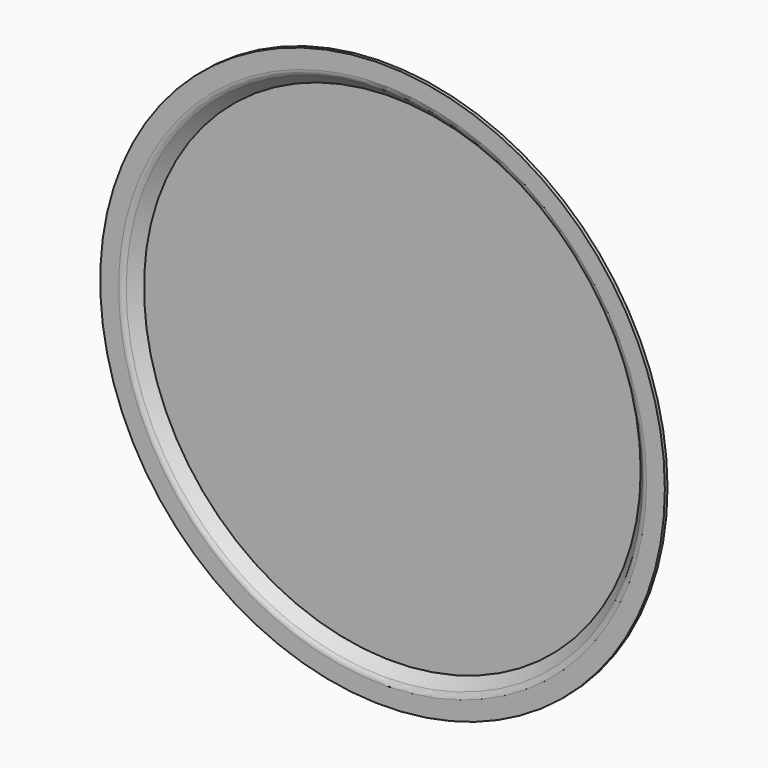
from build123d import *


with BuildPart() as f1:
    # F0 (on Top) → F1 (revolve)
    with BuildSketch(Plane.XY):
        with BuildLine():
            Line((256.921, 0), (0, 0))
            Line((0, 0), (0, -3.429))
            Line((0, -3.429), (257.57173, -3.429))
            Line((257.57173, -3.429), (267.802933, -13.660203))
            ThreePointArc((267.802933, -13.660203), (270.537497, -15.487381), (273.763136, -16.129))
            Line((273.763136, -16.129), (292.813136, -16.129))
            Line((292.813136, -16.129), (292.813136, -12.7))
            Line((292.813136, -12.7), (273.763136, -12.7))
            ThreePointArc((273.763136, -12.7), (271.849718, -12.319398), (270.227602, -11.235534))
            Line((270.227602, -11.235534), (260.456534, -1.464466))
            ThreePointArc((260.456534, -1.464466), (258.834417, -0.380602), (256.921, 0))
        make_face()
    revolve(axis=Axis((0, -1.7145, 0), (0, -1, 0)))


solid = f1.part
